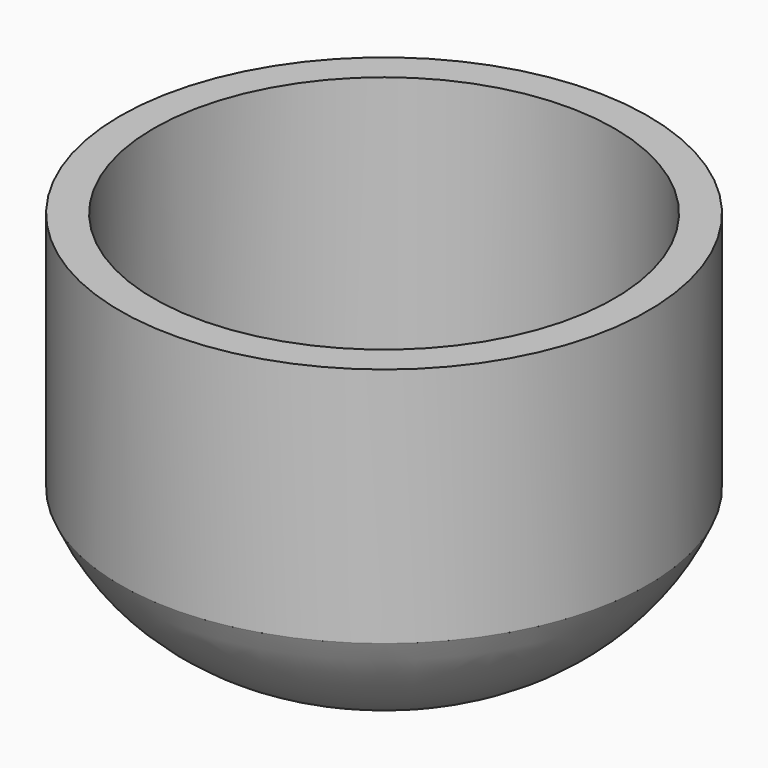
from build123d import *


with BuildPart() as f1:
    # F0 (on Front) → F1 (revolve)
    with BuildSketch(Plane.XZ):
        with BuildLine():
            Line((-12.129213, -23.687641), (0, -23.687641))
            Line((0, -23.687641), (0, 30.965169))
            Line((0, 30.965169), (-38.1, 30.965169))
            Line((-38.1, 30.965169), (-38.1, -3.852809))
            ThreePointArc((-38.1, -3.852809), (-27.750454, -17.221478), (-12.129213, -23.687641))
        make_face()
    revolve(axis=Axis((0, 0, 3.638764), (0, 0, 1)))

    # F2 (on Front) → F3 (revolve, cut)
    with BuildSketch(Plane.XZ):
        with BuildLine():
            Line((-11.736147, -19.885632), (0, -19.885632))
            Line((0, -19.885632), (0, 30.965169))
            Line((0, 30.965169), (-33.249947, 30.965169))
            Line((-33.249947, 30.965169), (-33.249947, -3.705831))
            ThreePointArc((-33.249947, -3.705831), (-24.577615, -14.56752), (-11.736147, -19.885632))
        make_face()
    revolve(axis=Axis((0, 0, 5.539769), (0, 0, 1)), mode=Mode.SUBTRACT)


solid = f1.part
